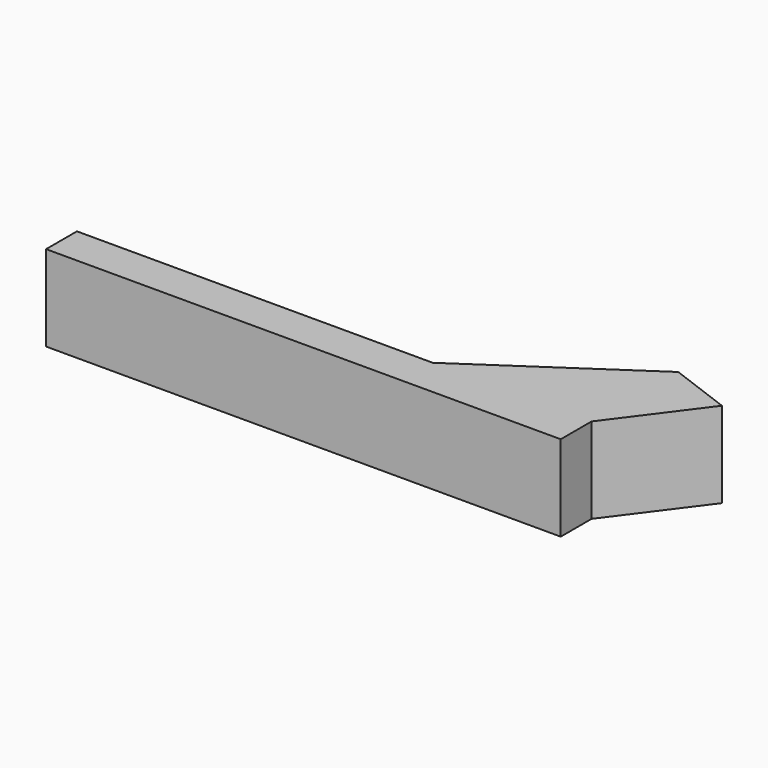
from build123d import *

# Parameters (mm, degrees)
F1_DEPTH  = 25.4
F1_FACE_W = 11.417828
F1_FACE_H = 25.4
F2_DEPTH  = 152.4


with BuildPart() as f1:
    # F0 (on Top) → F1 (new body)
    with BuildSketch(Plane.XY):
        Polygon((-64.757831, 0), (14.996547, 0), (14.996547, 11.417828), (-32.038085, 11.417828), (-64.757831, 11.417828), align=None)
        Polygon((-32.038085, 11.417828), (14.996547, 11.417828), (33.608254, 36.400016), (15.166967, 43.285497), align=None)
    extrude(amount=F1_DEPTH)

    # F1_face (on face) → F2 (join)
    with BuildSketch(Plane(origin=(14.996547, 5.708914, 12.7), x_dir=(0, 1, 0), z_dir=(1, 0, 0))):
        Rectangle(F1_FACE_W, F1_FACE_H)
    extrude(amount=-F2_DEPTH)


solid = f1.part
